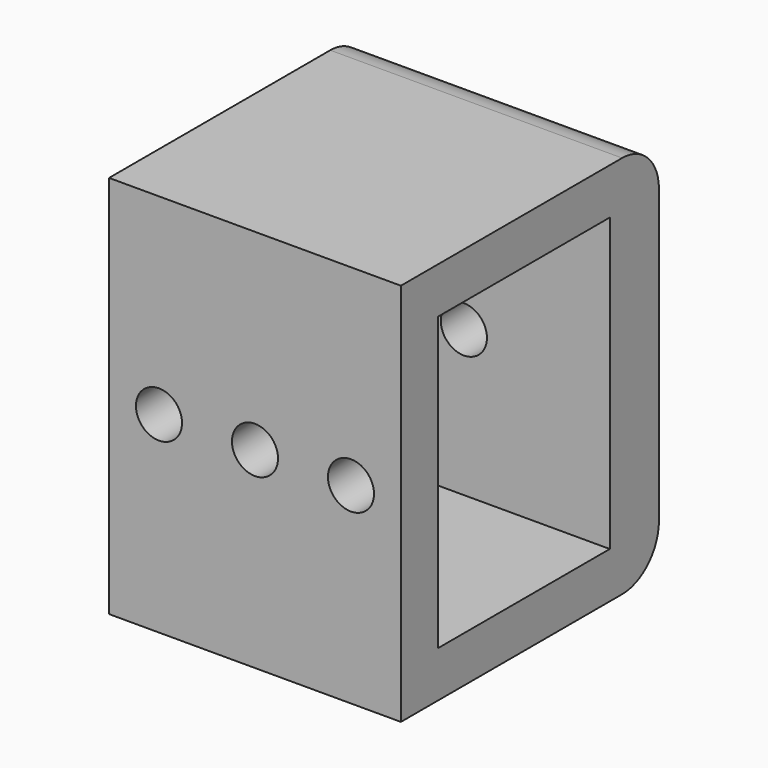
from build123d import *

# Parameters (mm, degrees)
SKETCH_W        = 19
SKETCH_H        = 14
PAD_DEPTH       = 19
THICKNESS_T     = 3
SKETCH001_R     = 1.5
POCKET_DEPTH    = 20
SKETCH002_R     = 1.5
POCKET001_DEPTH = 3
CHAMFER_SIZE    = 1.5
SKETCH003_W     = 19
SKETCH003_H     = 25
PAD001_DEPTH    = 1
POCKET002_DEPTH = 24


with BuildPart() as part:
    # Sketch → Pad (new body)
    with BuildSketch(Plane.XY):
        Rectangle(SKETCH_W, SKETCH_H)
    extrude(amount=PAD_DEPTH)

    # Thickness
    thickness_openings = [part.faces().sort_by_distance(p)[0] for p in [
        (-9.5, 0, 9.5),
        (9.5, 0, 9.5),
    ]]
    offset(amount=THICKNESS_T, openings=thickness_openings, kind=Kind.INTERSECTION)

    # Sketch001 (on Face8 of Thickness) → Pocket (cut)
    with BuildSketch(Plane.XZ.offset(10)):
        with Locations((0, 9.5)):
            Circle(SKETCH001_R)
    extrude(amount=-POCKET_DEPTH, mode=Mode.SUBTRACT)

    # Sketch002 (on Face10 of Pocket) → Pocket001 (cut)
    with BuildSketch(Plane.XZ.offset(10)):
        with Locations((-6.25, 9.5)):
            Circle(SKETCH002_R)
        with Locations((6.25, 9.5)):
            Circle(SKETCH002_R)
    extrude(amount=-POCKET001_DEPTH, mode=Mode.SUBTRACT)

    # Chamfer
    chamfer_edges = [part.edges().sort_by_distance(p)[0] for p in [
        (-9.5, 0, 0),
        (-9.5, 0, 19),
        (-9.5, 7, 9.5),
        (-9.5, -7, 9.5),
    ]]
    chamfer(chamfer_edges, length=CHAMFER_SIZE)

    # Sketch003 (on Face13 of Chamfer) → Pad001 (join)
    with BuildSketch(Plane(origin=(0, 10, 0), x_dir=(-1, 0, 0), z_dir=(0, 1, 0))):
        with Locations((0, 9.5)):
            Rectangle(SKETCH003_W, SKETCH003_H)
    extrude(amount=PAD001_DEPTH)

    # Sketch004 (on Face4 of Pad001) → Pocket002 (cut)
    with BuildSketch(Plane.YZ.offset(9.5)):
        with BuildLine():
            ThreePointArc((11, 19), (10.12132, 21.12132), (8, 22))
            Line((8, 22), (11, 22))
            Line((11, 22), (11, 19))
        make_face()
        with BuildLine():
            ThreePointArc((8, -3), (10.12132, -2.12132), (11, 0))
            Line((11, 0), (11, -3))
            Line((8, -3), (11, -3))
        make_face()
    extrude(amount=-POCKET002_DEPTH, mode=Mode.SUBTRACT)


solid = part.part
